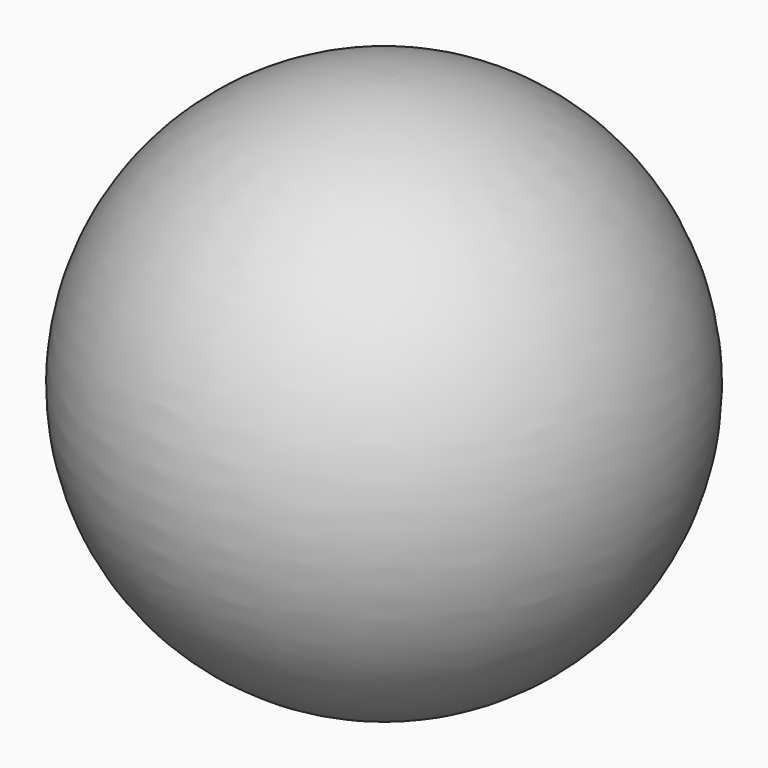
from build123d import *


with BuildPart() as f1:
    # F0 (on Right) → F1 (revolve)
    with BuildSketch(Plane.YZ):
        with BuildLine():
            ThreePointArc((1.175453, 14.785662), (4.203697, 19.458641), (0, 23.110479))
            Line((0, 23.110479), (0, 14.785662))
            Line((0, 14.785662), (1.175453, 14.785662))
        make_face()
    revolve(axis=Axis((0, 0, 10.843843), (0, 0, -1)))


solid = f1.part
